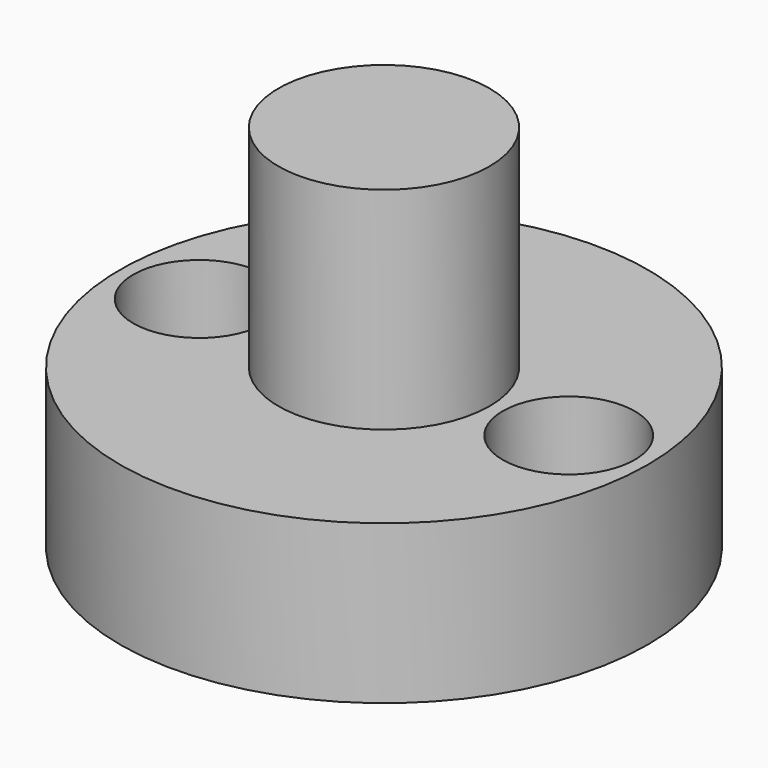
from build123d import *

# Parameters (mm, degrees)
F0_R     = 6.35
F1_DEPTH = 3.81
F2_R     = 2.54
F3_DEPTH = 5.08
F6_D     = 3.175
F6_DEPTH = 2.032
F6_TIP   = 0.9538662327
F7_D     = 3.175
F7_DEPTH = 2.032
F7_TIP   = 0.9538662327


with BuildPart() as f1:
    # F0 (on Top) → F1 (new body)
    with BuildSketch(Plane.XY):
        Circle(F0_R)
    extrude(amount=F1_DEPTH)

    # F2 (on face) → F3 (join)
    with BuildSketch(Plane.XY.offset(3.81)):
        Circle(F2_R)
    extrude(amount=F3_DEPTH)

    # F6
    with Locations(Plane.XY.offset(3.81)):
        with Locations((-4.445, 0)):
            Hole(F6_D / 2, depth=F6_DEPTH)
            with Locations((0, 0, -(F6_DEPTH + F6_TIP / 2))):  # 118° drill point
                Cone(0, F6_D / 2, F6_TIP, mode=Mode.SUBTRACT)

    # F7
    with Locations(Plane.XY.offset(3.81)):
        with Locations((4.445, 0)):
            Hole(F7_D / 2, depth=F7_DEPTH)
            with Locations((0, 0, -(F7_DEPTH + F7_TIP / 2))):  # 118° drill point
                Cone(0, F7_D / 2, F7_TIP, mode=Mode.SUBTRACT)


solid = f1.part
